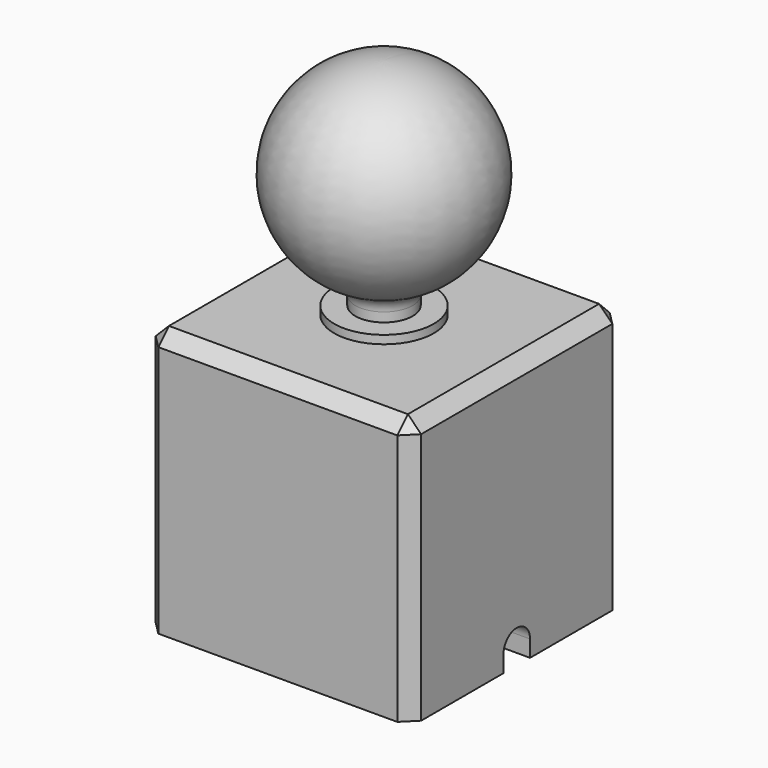
from build123d import *

# Parameters (mm, degrees)
F0_W     = 101.6
F0_H     = 101.6
F0_W_2   = 76.2
F0_H_2   = 76.2
F1_DEPTH = 101.6
F2_W     = 76.2
F2_H     = 76.2
F2_R     = 15.875
F3_DEPTH = 12.7
F5_DEPTH = 12.7
F10_SIZE = 5.08


with BuildPart() as f1:
    # F0 (on Top) → F1 (new body)
    with BuildSketch(Plane.XY):
        Rectangle(F0_W, F0_H)
        Rectangle(F0_W_2, F0_H_2, mode=Mode.SUBTRACT)
    extrude(amount=-F1_DEPTH)

    # F2 (on Top) → F3 (join)
    with BuildSketch(Plane.XY):
        Rectangle(F2_W, F2_H)
        Circle(F2_R, mode=Mode.SUBTRACT)
    extrude(amount=-F3_DEPTH)

    # F4 (on face) → F5 (cut, through all)
    with BuildSketch(Plane.YZ.offset(50.8)):
        with BuildLine():
            Line((-6.35, -95.25), (-6.35, -101.6))
            Line((-6.35, -101.6), (6.35, -101.6))
            Line((6.35, -101.6), (6.35, -95.25))
            ThreePointArc((6.35, -95.25), (0, -88.9), (-6.35, -95.25))
        make_face()
    extrude(amount=-F5_DEPTH, mode=Mode.SUBTRACT)

    # F10
    f10_edges = [f1.edges().sort_by_distance(p)[0] for p in [
        (-50.8, 0, 0),
        (0, -50.8, 0),
        (50.8, 0, 0),
        (0, 50.8, 0),
        (-50.8, -50.8, -50.8),
        (50.8, -50.8, -50.8),
        (-50.8, 50.8, -50.8),
        (50.8, 50.8, -50.8),
        (38.1, -38.1, -57.15),
        (-38.1, -38.1, -57.15),
        (38.1, 38.1, -57.15),
        (-38.1, 38.1, -57.15),
    ]]
    chamfer(f10_edges, length=F10_SIZE)


with BuildPart() as f7:
    # F6 (on Right) → F7 (revolve)
    with BuildSketch(Plane.YZ):
        Polygon((11, -22.225), (0, -22.225), (0, -25.4), (7.9375, -25.4), (14.2875, -19.05), (14.2875, 0), (19.05, 0), (19.05, 3.175), (11, 3.175), align=None)
    revolve(axis=Axis((0, 0, -12.7), (0, 0, -1)))


with BuildPart() as f9:
    # F8 (on Right) → F9 (revolve)
    with BuildSketch(Plane.YZ):
        with BuildLine():
            ThreePointArc((11, 6.700924), (12.055596, 10.206888), (14.871429, 12.547221))
            ThreePointArc((14.871429, 12.547221), (37.336801, 55.212707), (0, 85.725))
            Line((0, 85.725), (0, 9.525))
            Line((0, 9.525), (0, -22.225))
            Line((0, -22.225), (6.35, -22.225))
            Line((6.35, -22.225), (11, -19.540321))
            Line((11, -19.540321), (11, 6.700924))
        make_face()
    revolve(axis=Axis((0, 0, 47.625), (0, 0, 1)))


solid = Compound([f1.part, f7.part, f9.part])
